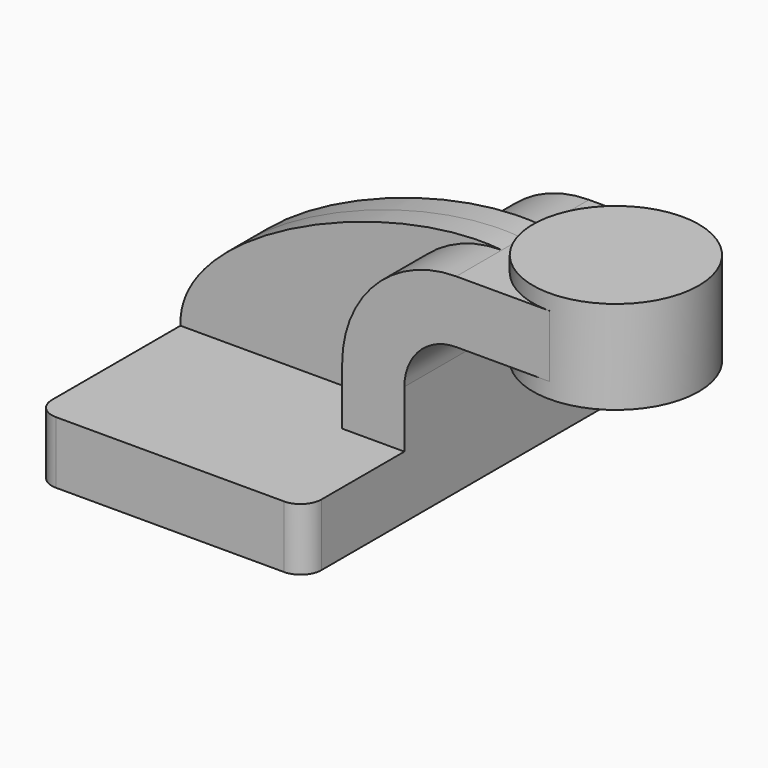
from build123d import *

# Parameters (mm, degrees)
F1_DEPTH = 63.5
F2_DEPTH = 7.9375
F0_W     = 25.4054286964
F0_H     = 19.05
F3_DEPTH = 25.4
F5_R     = 6.35


with BuildPart() as f1:
    # F0 (on Front) → F1 (new body, symmetric)
    with BuildSketch(Plane.XZ):
        Polygon((41.275, -9.525), (41.275, 9.525), (22.225, 9.525), (-41.275, 9.525), (-41.275, -9.525), align=None)
    extrude(amount=F1_DEPTH, both=True)

    # F0 (on Front) → F2 (join, symmetric)
    with BuildSketch(Plane.XZ):
        with BuildLine():
            Line((-41.275, 9.525), (22.225, 9.525))
            Line((22.225, 9.525), (22.225, 27.0002))
            ThreePointArc((22.225, 27.0002), (32.4542956671, 51.6959043329), (57.15, 61.9252))
            add(Edge.make_bspline(
                [(-41.275, 9.525), (-42.3278567473, 37.8404585479), (22.6979233007, 65.4984331605), (57.15, 61.9252)],
                knots=[0, 0, 0, 0, 111.5045361635, 111.5045361635, 111.5045361635, 111.5045361635], degree=3))
        make_face()
    extrude(amount=F2_DEPTH, both=True)

    # F0 (on Front) → F3 (join, symmetric)
    with BuildSketch(Plane.XZ):
        with BuildLine():
            Line((22.225, 9.525), (41.275, 9.525))
            Line((41.275, 9.525), (41.275, 27.0002))
            ThreePointArc((41.275, 27.0002), (45.9246798487, 38.2255201513), (57.15, 42.8752))
            Line((57.15, 42.8752), (60.325, 42.8752))
            Line((60.325, 42.8752), (60.325, 61.9252))
            Line((60.325, 61.9252), (57.15, 61.9252))
            ThreePointArc((57.15, 61.9252), (32.4542956671, 51.6959043329), (22.225, 27.0002))
            Line((22.225, 27.0002), (22.225, 9.525))
        make_face()
        with Locations((73.0277143482, 52.4002)):
            Rectangle(F0_W, F0_H)
    extrude(amount=F3_DEPTH, both=True)

    # F5
    f5_edges = [f1.edges().sort_by_distance(p)[0] for p in [
        (-41.275, -63.5, 0),
        (41.275, -63.5, 0),
        (41.275, 63.5, 0),
        (-41.275, 63.5, 0),
    ]]
    fillet(f5_edges, radius=F5_R)


with BuildPart() as f4:
    # F0 (on Front) → F4 (revolve)
    with BuildSketch(Plane.XZ):
        Polygon((85.7304286964, 61.9252), (85.7304286964, 42.8752), (85.7304286964, 38.1), (111.125, 38.1), (111.125, 66.675), (85.7304286964, 66.675), align=None)
    revolve(axis=Axis((85.7304286964, 0, 52.3875), (0, 0, 1)))


solid = Compound([f1.part, f4.part])
